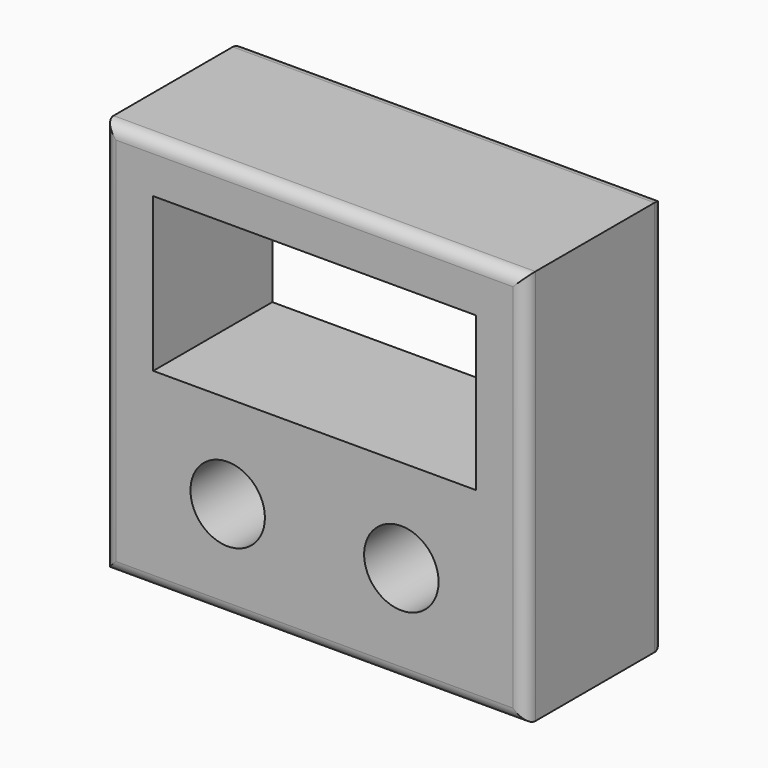
from build123d import *

# Parameters (mm, degrees)
F0_R     = 1.5
F1_DEPTH = 7
F2_SIZE  = 1
F3_R     = 0.5


with BuildPart() as f1:
    # F0 (on Front) → F1 (new body)
    with BuildSketch(Plane.XZ):
        Polygon((0, 7.75), (0, 0), (17, 0), (17, 7.75), (15, 7.75), (2, 7.75), align=None)
        with Locations((5, 4)):
            Circle(F0_R, mode=Mode.SUBTRACT)
        with Locations((12, 4)):
            Circle(F0_R, mode=Mode.SUBTRACT)
        Polygon((0, 15.95), (0, 7.75), (2, 7.75), (2, 13.95), (15, 13.95), (15, 7.75), (17, 7.75), (17, 15.95), align=None)
    extrude(amount=F1_DEPTH)

    # F2
    f2_edges = [f1.edges().sort_by_distance(p)[0] for p in [
        (8.5, 0, 7.75),
        (2, 0, 10.85),
        (8.5, 0, 13.95),
        (15, 0, 10.85),
    ]]
    chamfer(f2_edges, length=F2_SIZE)

    # F3
    f3_edges = [f1.edges().sort_by_distance(p)[0] for p in [
        (8.5, -7, 0),
        (17, -7, 7.975),
        (8.5, -7, 15.95),
        (0, -7, 7.975),
        (17, 0, 7.975),
        (8.5, 0, 0),
        (0, 0, 7.975),
        (8.5, 0, 15.95),
    ]]
    fillet(f3_edges, radius=F3_R)


solid = f1.part
